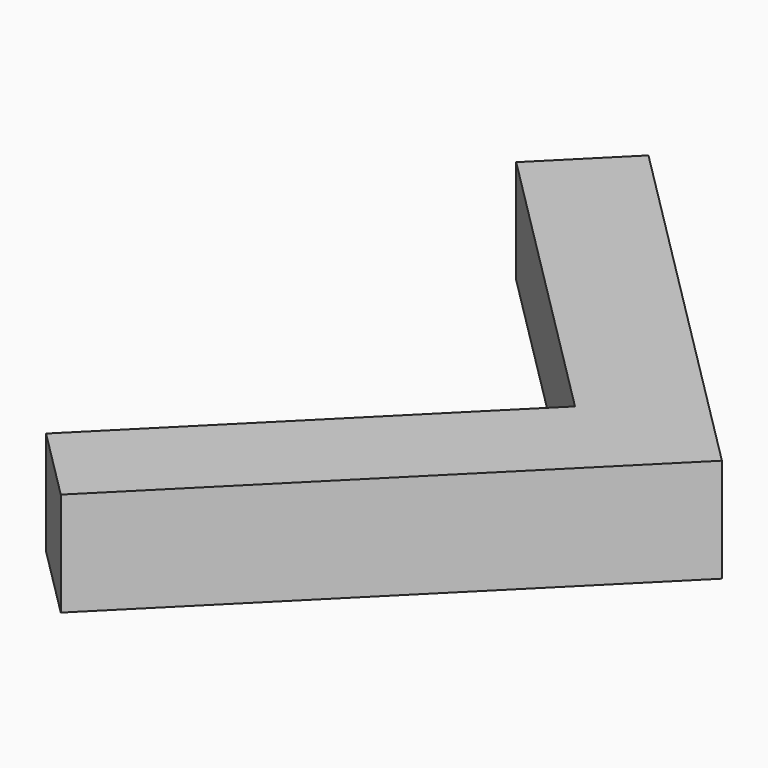
from build123d import *

# Parameters (mm, degrees)
BOX066_W               = 1
BOX066_H               = 5
BOX066_DEPTH           = 1
BOX066_PLACEMENT_ANGLE = 45
BOX069_W               = 1
BOX069_H               = 4
BOX069_DEPTH           = 1
BOX069_PLACEMENT_ANGLE = 135


with BuildPart() as cube066:
    # Box066 → Box066 (new body)
    with BuildSketch(Plane.XY):
        with Locations((0.5, 2.5)):
            Rectangle(BOX066_W, BOX066_H)
    extrude(amount=BOX066_DEPTH)


with BuildPart() as cube066_1:
    # Box066 placement: moved
    add(cube066.part.rotate(Axis((0, 0, 0), (0, 0, 1)), BOX066_PLACEMENT_ANGLE))


with BuildPart() as obj1:
    # Box069 → Box069 (new body)
    with BuildSketch(Plane.XY):
        with Locations((0.5, 2)):
            Rectangle(BOX069_W, BOX069_H)
    extrude(amount=BOX069_DEPTH)


with BuildPart() as obj1_1:
    # Box069 placement: moved
    add(obj1.part.rotate(Axis((0, 0, 0), (0, 0, 1)), BOX069_PLACEMENT_ANGLE))

    # Fusion009: union Cube066
    add(cube066_1.part)


with BuildPart() as obj1_2:
    # Fusion009 placement: moved
    add(obj1_1.part.moved(Location((16, 5, 0))))


solid = obj1_2.part
